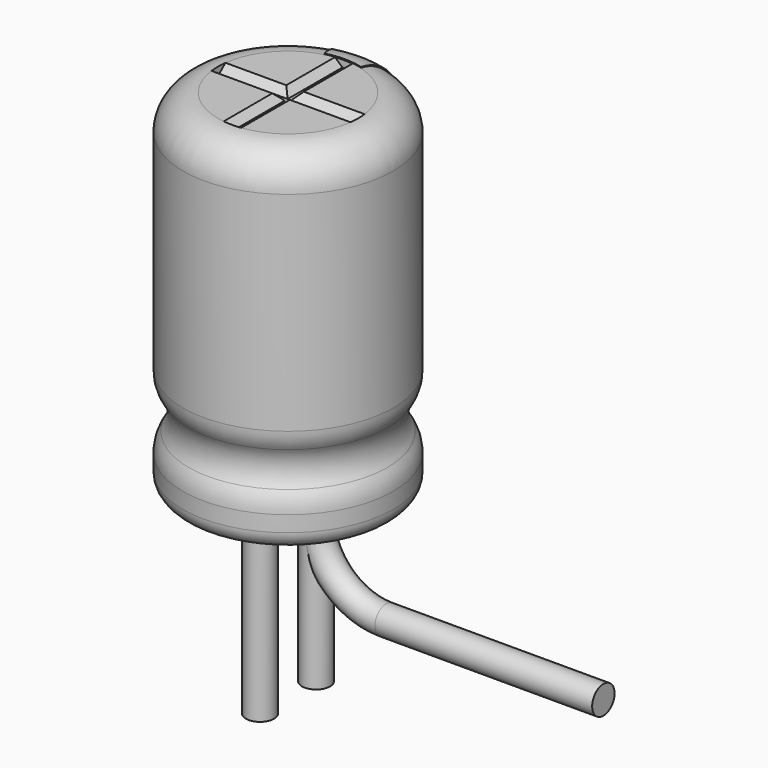
from build123d import *

# Parameters (mm, degrees)
SKETCH003_R         = 0.2
REVOLUTION001_ANGLE = -30
SKETCH015_W         = 0.25
SKETCH015_H         = 0.5
POCKET002_DEPTH     = 1.511
LINEARPATTERN_COUNT = 3
LINEARPATTERN_PITCH = 1.25
SKETCH010_R         = 0.2
PAD002_DEPTH        = 2.6
SKETCH013_R         = 1
PAD_DEPTH           = 0.5
POCKET001_DEPTH     = 1.125
POLARPATTERN_COUNT  = 3
POLARPATTERN_ANGLE  = 180
SKETCH012_R         = 1
POCKET_DEPTH        = 0.5


with BuildPart() as obj1:
    # AdditivePipe: sweep along a path in Sketch004
    with BuildLine(Plane.XZ) as additivepipe_path:
        Line((0, 0), (0, -0.5))
        ThreePointArc((0, -0.5), (0.292893, -1.207107), (1, -1.5))
        Line((1, -1.5), (4.1, -1.5))
    # Sketch003 (on ShapeBinder) → AdditivePipe (sweep)
    with BuildSketch(Plane(origin=(0, 0, 0), x_dir=(1, 0, 0), z_dir=(0, 0, -1))):
        with Locations((0, 0.5)):
            Circle(SKETCH003_R)
    sweep(path=additivepipe_path.line)


with BuildPart() as obj1_1:
    # Body003 placement: moved
    add(obj1.part.moved(Location((0, 1, 0))))


with BuildPart() as polaritymarking:
    # Sketch005 → Revolution001 (revolve)
    with BuildSketch(Plane(origin=(0, 0, 0), x_dir=(-0.258819, 0.965926, 0), z_dir=(0.965926, 0.258819, 0))):
        with BuildLine():
            Line((1.01, 0.25), (1.01, 5.01))
            ThreePointArc((1.01, 5.01), (1.363553, 4.863553), (1.51, 4.51))
            Line((1.51, 4.51), (1.51, 1.523941))
            ThreePointArc((1.51, 1.523941), (1.489134, 1.381006), (1.428278, 1.25))
            ThreePointArc((1.428278, 1.25), (1.353698, 1), (1.428278, 0.75))
            ThreePointArc((1.428278, 0.75), (1.489134, 0.618994), (1.51, 0.476059))
            Line((1.51, 0.476059), (1.51, 0.25))
            ThreePointArc((1.51, 0.25), (1.26, 0), (1.01, 0.25))
        make_face()
    revolve(axis=Axis((0, 0, 0), (0, 0, 1)), revolution_arc=REVOLUTION001_ANGLE)

    # Sketch015 → Pocket002 (cut, through all)
    with BuildSketch(Plane.XZ):
        with Locations((0, 1.75)):
            Rectangle(SKETCH015_W, SKETCH015_H)
    pocket002 = extrude(amount=-POCKET002_DEPTH, mode=Mode.SUBTRACT)

    # LinearPattern: Pocket002 ×3
    with Locations(*[(0, 0, i * LINEARPATTERN_PITCH) for i in range(1, LINEARPATTERN_COUNT)]):
        add(pocket002, mode=Mode.SUBTRACT)


with BuildPart() as obj2:
    # Sketch010 → Pad002 (new body)
    with BuildSketch(Plane(origin=(0, 0.5, 0), x_dir=(1, 0, 0), z_dir=(0, 0, 1))):
        Circle(SKETCH010_R)
    extrude(amount=-PAD002_DEPTH)


with BuildPart() as obj3:
    # Body007 base: copy of obj2
    add(obj2.part)


with BuildPart() as obj3_1:
    # Body007 placement: moved
    add(obj3.part.moved(Location((0, -1, 0))))


with BuildPart() as housingtop:
    # Sketch013 (on ShapeBinder) → Pad (new body)
    with BuildSketch(Plane.XY.offset(4.5)):
        Circle(SKETCH013_R)
    extrude(amount=PAD_DEPTH)

    # Sketch014 → Pocket001 (cut, symmetric)
    with BuildSketch(Plane.XZ):
        Polygon((-0.125, 5), (0.125, 5), (0.025, 4.9), (-0.025, 4.9), align=None)
    pocket001 = extrude(amount=POCKET001_DEPTH, both=True, mode=Mode.SUBTRACT)

    # PolarPattern: Pocket001 ×3 about axis
    polarpattern_axis = Axis((0, 0, 0), (0, 0, 1))
    for i in range(1, POLARPATTERN_COUNT):
        add(pocket001.rotate(polarpattern_axis, i * POLARPATTERN_ANGLE / (POLARPATTERN_COUNT - 1)), mode=Mode.SUBTRACT)


with BuildPart() as fusion:
    # Sketch → Revolution (revolve)
    with BuildSketch(Plane.XZ):
        with BuildLine():
            Line((0, 5), (1, 5))
            ThreePointArc((1.5, 4.5), (1.353553, 4.853553), (1, 5))
            Line((1.5, 4.5), (1.5, 1.523941))
            ThreePointArc((1.418278, 1.25), (1.479134, 1.381006), (1.5, 1.523941))
            ThreePointArc((1.418278, 1.25), (1.343698, 1), (1.418278, 0.75))
            ThreePointArc((1.5, 0.476059), (1.479134, 0.618994), (1.418278, 0.75))
            Line((1.5, 0.476059), (1.5, 0.25))
            ThreePointArc((1.25, 0), (1.426777, 0.073223), (1.5, 0.25))
            Line((0, 0), (1.25, 0))
            Line((0, 5), (0, 0))
        make_face()
    revolve(axis=Axis((0, 0, 0), (0, 0, 1)))

    # Sketch012 → Pocket (cut)
    with BuildSketch(Plane.XY.offset(5)):
        Circle(SKETCH012_R)
    extrude(amount=-POCKET_DEPTH, mode=Mode.SUBTRACT)

    # Fusion: union PolarityMarking, obj2, obj3, HousingTop
    add(polaritymarking.part)
    add(obj2.part)
    add(obj3_1.part)
    add(housingtop.part)


solid = Compound([obj1_1.part, fusion.part])
